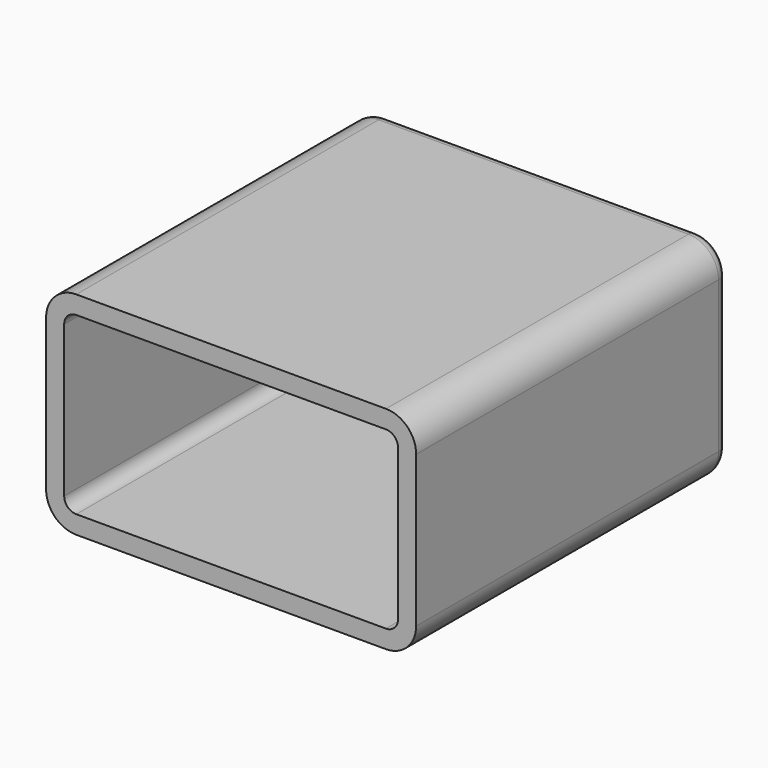
from build123d import *

# Parameters (mm, degrees)
F0_W     = 155.6676864983
F0_H     = 89.0193315694
F1_DEPTH = 82.042
F2_R     = 12.7
F3_R     = 5.08
F4_T     = -7.62


with BuildPart() as f1:
    # F0 (on Front) → F1 (new body, symmetric)
    with BuildSketch(Plane.XZ):
        with Locations((63.3336471573, 10.4723514293)):
            Rectangle(F0_W, F0_H)
    extrude(amount=F1_DEPTH, both=True)

    # F2
    f2_edges = [f1.edges().sort_by_distance(p)[0] for p in [
        (-14.500196, 0, 54.982017),
        (-14.500196, 0, -34.037314),
        (141.16749, 0, 54.982017),
        (141.16749, 0, -34.037314),
    ]]
    fillet(f2_edges, radius=F2_R)

    # F3
    f3_edges = [f1.edges().sort_by_distance(p)[0] for p in [
        (-10.780452, 82.042, -30.31757),
    ]]
    fillet(f3_edges, radius=F3_R)

    # F4
    f4_openings = [f1.faces().sort_by_distance(p)[0] for p in [
        (63.333647, -82.042, 10.472351),
    ]]
    offset(amount=F4_T, openings=f4_openings)


solid = f1.part
